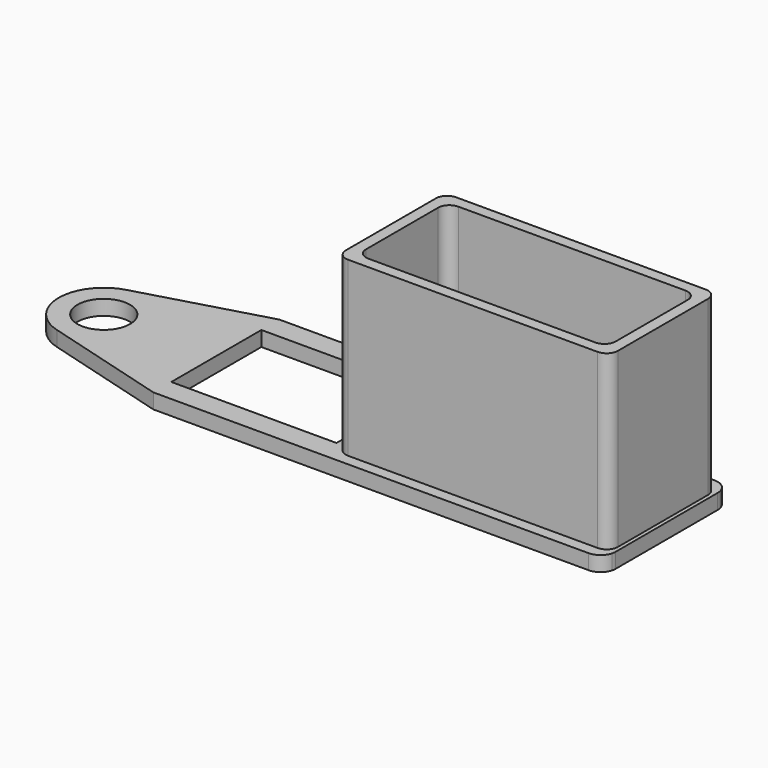
from build123d import *

# Parameters (mm, degrees)
F0_R     = 3.5
F0_W     = 22
F0_H     = 15
F1_DEPTH = 2
F2_DEPTH = 25
F3_DEPTH = 2


with BuildPart() as f1:
    # F0 (on Top) → F1 (new body)
    with BuildSketch(Plane.XY):
        with BuildLine():
            Line((-23.506553, -5.771502), (-6.866502, -10.5))
            Line((-6.866502, -10.5), (51.133498, -10.5))
            ThreePointArc((51.133498, -10.5), (52.358243, -10.081139), (53.06999, -9))
            ThreePointArc((53.06999, -9), (53.117558, -8.752009), (53.133498, -8.5))
            Line((53.133498, -8.5), (53.133498, 8.5))
            ThreePointArc((53.133498, 8.5), (53.117558, 8.752009), (53.06999, 9))
            ThreePointArc((53.06999, 9), (52.358243, 10.081139), (51.133498, 10.5))
            Line((51.133498, 10.5), (-6.866502, 10.5))
            Line((-6.866502, 10.5), (-23.506553, 5.771502))
            ThreePointArc((-23.506553, 5.771502), (-27.866502, 0), (-23.506553, -5.771502))
        make_face()
        with Locations((-21.866502, 0)):
            Circle(F0_R, mode=Mode.SUBTRACT)
        with Locations((4.133498, 0)):
            Rectangle(F0_W, F0_H, mode=Mode.SUBTRACT)
        with BuildLine():
            ThreePointArc((17.881379, -9), (16.820718, -8.56066), (16.381379, -7.5))
            Line((16.381379, -7.5), (16.381379, 7.5))
            ThreePointArc((16.381379, 7.5), (16.820718, 8.56066), (17.881379, 9))
            Line((17.881379, 9), (51.133498, 9))
            ThreePointArc((51.133498, 9), (52.194158, 8.56066), (52.633498, 7.5))
            Line((52.633498, 7.5), (52.633498, -7.5))
            ThreePointArc((52.633498, -7.5), (52.194158, -8.56066), (51.133498, -9))
            Line((51.133498, -9), (17.881379, -9))
        make_face(mode=Mode.SUBTRACT)
    extrude(amount=F1_DEPTH)

    # F0 (on Top) → F2 (join)
    with BuildSketch(Plane.XY):
        with BuildLine():
            Line((16.381379, 7.5), (16.381379, -7.5))
            ThreePointArc((16.381379, -7.5), (16.820718, -8.56066), (17.881379, -9))
            Line((17.881379, -9), (51.133498, -9))
            ThreePointArc((51.133498, -9), (52.194158, -8.56066), (52.633498, -7.5))
            Line((52.633498, -7.5), (52.633498, 7.5))
            ThreePointArc((52.633498, 7.5), (52.194158, 8.56066), (51.133498, 9))
            Line((51.133498, 9), (17.881379, 9))
            ThreePointArc((17.881379, 9), (16.820718, 8.56066), (16.381379, 7.5))
        make_face()
        with BuildLine():
            Line((49.633498, -7.5), (19.381379, -7.5))
            ThreePointArc((19.381379, -7.5), (18.320718, -7.06066), (17.881379, -6))
            Line((17.881379, -6), (17.881379, 6))
            ThreePointArc((17.881379, 6), (18.320718, 7.06066), (19.381379, 7.5))
            Line((19.381379, 7.5), (49.633498, 7.5))
            ThreePointArc((49.633498, 7.5), (50.694158, 7.06066), (51.133498, 6))
            Line((51.133498, 6), (51.133498, -6))
            ThreePointArc((51.133498, -6), (50.694158, -7.06066), (49.633498, -7.5))
        make_face(mode=Mode.SUBTRACT)
    extrude(amount=F2_DEPTH)

    # F0 (on Top) → F3 (join)
    with BuildSketch(Plane.XY):
        with BuildLine():
            ThreePointArc((17.881379, -6), (18.320718, -7.06066), (19.381379, -7.5))
            Line((19.381379, -7.5), (49.633498, -7.5))
            ThreePointArc((49.633498, -7.5), (50.694158, -7.06066), (51.133498, -6))
            Line((51.133498, -6), (51.133498, 6))
            ThreePointArc((51.133498, 6), (50.694158, 7.06066), (49.633498, 7.5))
            Line((49.633498, 7.5), (19.381379, 7.5))
            ThreePointArc((19.381379, 7.5), (18.320718, 7.06066), (17.881379, 6))
            Line((17.881379, 6), (17.881379, -6))
        make_face()
    extrude(amount=F3_DEPTH)


solid = f1.part
